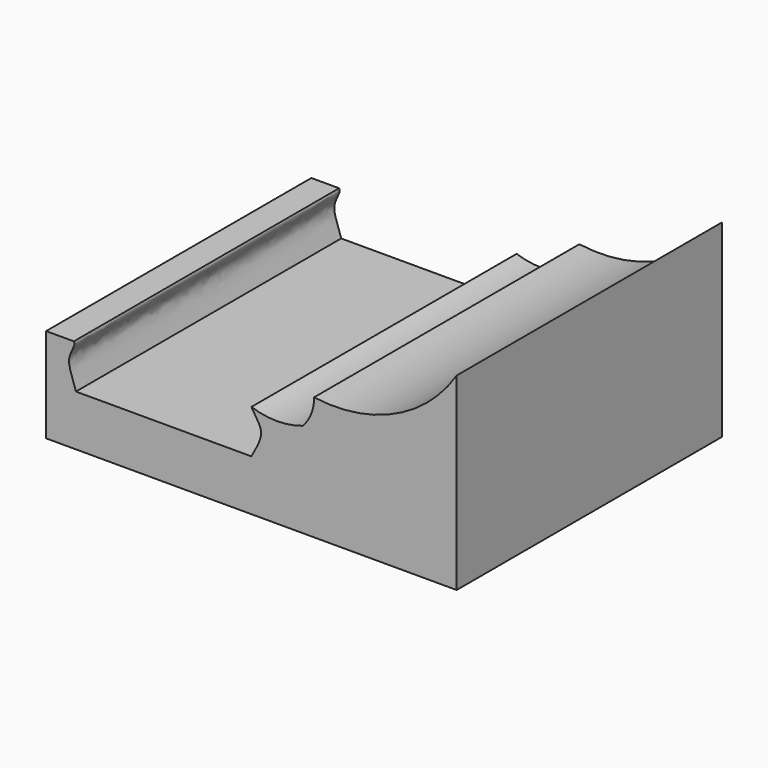
from build123d import *

# Parameters (mm, degrees)
F1_DEPTH = 130


with BuildPart() as f1:
    # F0 (on Front) → F1 (new body)
    with BuildSketch(Plane.XZ):
        with BuildLine():
            Line((-80.4885666445, 0), (-80.4885666445, -37.026398866))
            Line((-80.4885666445, -37.026398866), (80.4885666445, -37.026398866))
            Line((80.4885666445, -37.026398866), (80.4885666445, 37.026398866))
            ThreePointArc((80.4885666445, 37.026398866), (56.312606492, 15.964739969), (24.5885544515, 11.3112416162))
            ThreePointArc((24.5885544515, 11.3112416162), (23.4644064233, 5.2103284523), (20.0973115861, 0))
            ThreePointArc((20.0973115861, 0), (10.0486557931, -1.628361225), (0, 0))
            add(Edge.make_bspline(
                [(0, 0), (1.1070352702, -1.6801785988), (3.1184613885, -4.7329766513), (4.5940239288, -8.7749202813), (1.7421748157, -13.92092092), (0, -17.0645769686)],
                knots=[0, 0, 0, 0, 0.3226277316, 0.5861979859, 1, 1, 1, 1], degree=3))
            Line((0, -17.0645769686), (-68.7817037106, -17.0645769686))
            add(Edge.make_bspline(
                [(-69.5971027017, 0), (-68.7549732227, -1.0893751099), (-72.5978419161, -5.9254448151), (-70.4120398181, -12.0907470214), (-69.2717425761, -15.6012676406), (-68.7817037106, -17.0645769686)],
                knots=[0.3125236167, 0.3125236167, 0.3125236167, 0.3125236167, 0.5421460101, 0.7849492257, 1, 1, 1, 1], degree=3))
            Line((-69.5971027017, 0), (-80.4885666445, 0))
        make_face()
    extrude(amount=F1_DEPTH)


solid = f1.part
